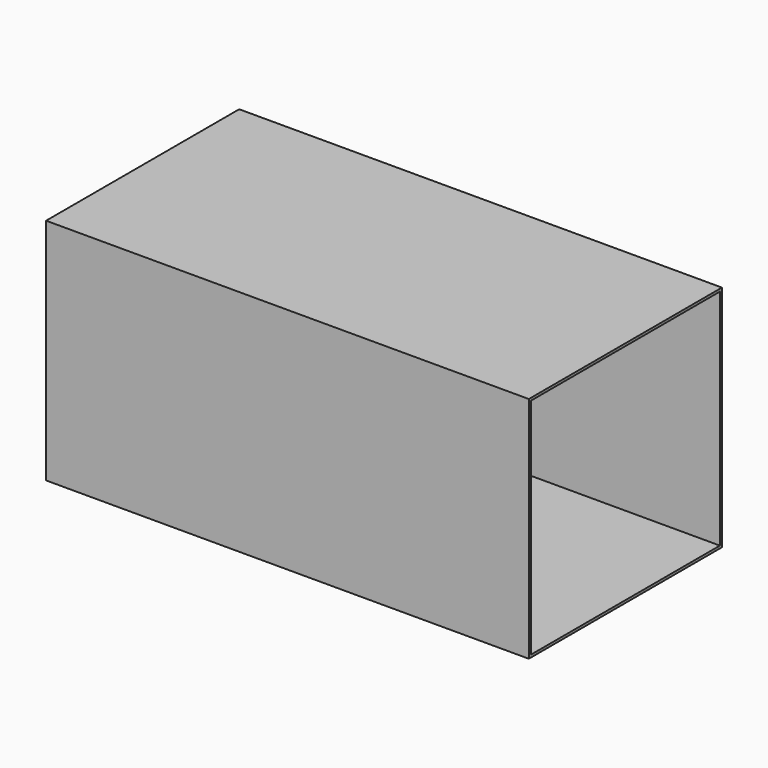
from build123d import *

# Parameters (mm, degrees)
F0_W      = 482.6
F0_H      = 228.6
F1_DEPTH  = 12.7
F1_FACE_W = 482.6
F1_FACE_H = 228.6
F2_DEPTH  = 114.3
F3_T      = -2.54


with BuildPart() as f1:
    # F0 (on Front) → F1 (new body, symmetric)
    with BuildSketch(Plane.XZ):
        with Locations((-108.143448, 114.3)):
            Rectangle(F0_W, F0_H)
    extrude(amount=F1_DEPTH, both=True)

    # F1_face (on face) + F0 (on Front) → F2 (join, symmetric)
    with BuildSketch(Plane(origin=(-108.143448, -12.7, 114.3), x_dir=(1, 0, 0), z_dir=(0, -1, 0))):
        Rectangle(F1_FACE_W, F1_FACE_H)
    with BuildSketch(Plane.XZ):
        with Locations((-108.143448, 114.3)):
            Rectangle(F0_W, F0_H)
    extrude(amount=F2_DEPTH, both=True)

    # F3
    f3_openings = [f1.faces().sort_by_distance(p)[0] for p in [
        (133.156552, -6.35, 114.3),
    ]]
    offset(amount=F3_T, openings=f3_openings)


solid = f1.part
